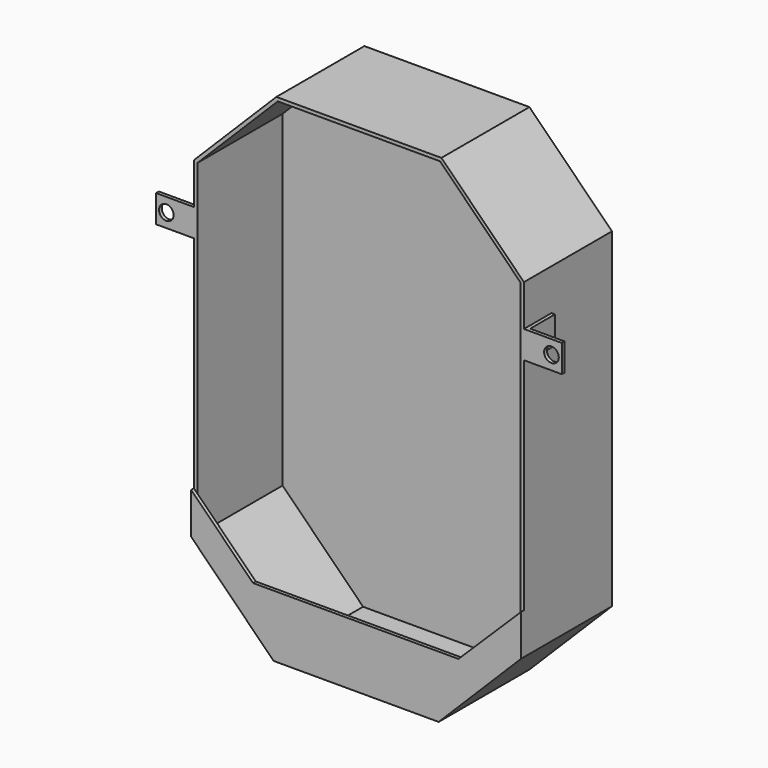
from build123d import *

# Parameters (mm, degrees)
F1_DEPTH  = 50.8
F2_T      = -1.5875
F4_DEPTH  = 1.5875
F5_W      = 15.875
F5_H      = 12.7
F6_DEPTH  = 1.5875
F7_W      = 1.5875
F7_H      = 12.7
F8_DEPTH  = 15.875
F10_D     = 6.7564
F11_W     = 15.875
F11_H     = 12.7
F12_DEPTH = 1.5875
F13_W     = 1.5875
F13_H     = 12.7
F14_DEPTH = 15.875
F16_D     = 6.7564


with BuildPart() as f1:
    # F0 (on Front) → F1 (new body)
    with BuildSketch(Plane.XZ):
        Polygon((-38.1, 114.3), (-76.2, 76.2), (-76.2, -76.2), (-38.1, -114.3), (0, -114.3), (38.1, -114.3), (76.2, -76.2), (76.2, 76.2), (38.1, 114.3), (0, 114.3), align=None)
    extrude(amount=F1_DEPTH)

    # F2
    f2_openings = [f1.faces().sort_by_distance(p)[0] for p in [
        (0, -50.8, 0),
    ]]
    offset(amount=F2_T, openings=f2_openings)

    # F3 (on face) → F4 (join)
    with BuildSketch(Plane.XZ.offset(50.8)):
        Polygon((-47.625, -85.725), (-76.2, -57.15), (-76.2, -76.2), (-38.1, -114.3), (38.1, -114.3), (76.2, -76.2), (76.2, -57.15), (47.204726897, -85.725), align=None)
    extrude(amount=F4_DEPTH)

    # F5 (on face) → F6 (join)
    with BuildSketch(Plane(origin=(-76.2, 0, 0), x_dir=(0, -1, 0), z_dir=(-1, 0, 0))):
        with Locations((42.8625, 50.8)):
            Rectangle(F5_W, F5_H)
    extrude(amount=F6_DEPTH)

    # F7 (on face) → F8 (join)
    with BuildSketch(Plane(origin=(-77.7875, 0, 0), x_dir=(0, -1, 0), z_dir=(-1, 0, 0))):
        with Locations((50.00625, 50.8)):
            Rectangle(F7_W, F7_H)
    extrude(amount=F8_DEPTH)

    # F10 (through all)
    with Locations(Plane(origin=(0, -49.2125, 0), x_dir=(-1, 0, 0), z_dir=(0, 1, 0))):
        with Locations((88.9, 50.8)):
            Hole(F10_D / 2)

    # F11 (on face) → F12 (join)
    with BuildSketch(Plane.YZ.offset(76.2)):
        with Locations((-42.8625, 50.8)):
            Rectangle(F11_W, F11_H)
    extrude(amount=F12_DEPTH)

    # F13 (on face) → F14 (join)
    with BuildSketch(Plane.YZ.offset(77.7875)):
        with Locations((-50.00625, 50.8)):
            Rectangle(F13_W, F13_H)
    extrude(amount=F14_DEPTH)

    # F16 (through all)
    with Locations(Plane(origin=(0, -49.2125, 0), x_dir=(-1, 0, 0), z_dir=(0, 1, 0))):
        with Locations((-88.9, 50.8)):
            Hole(F16_D / 2)


solid = f1.part
